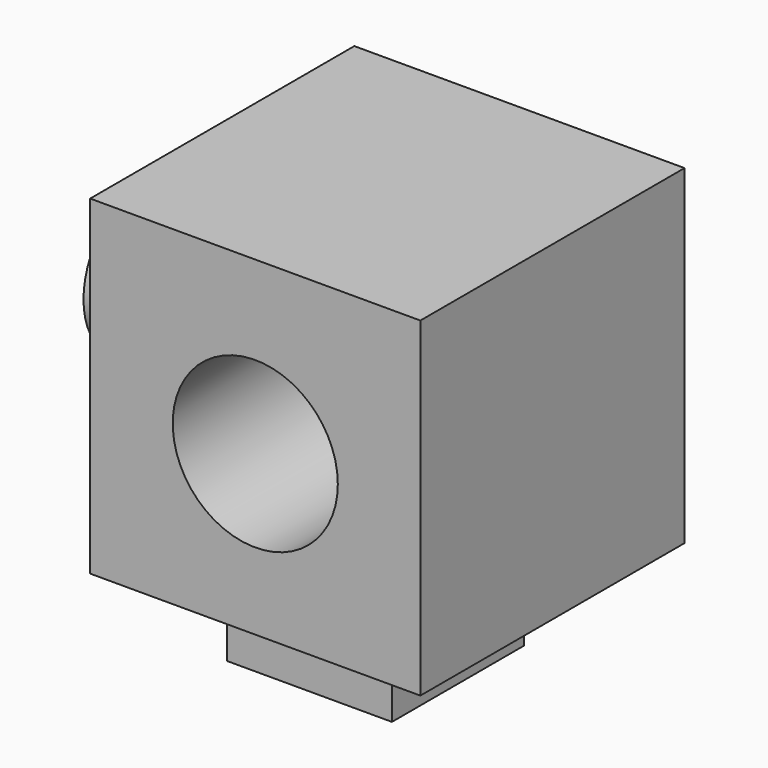
from build123d import *

# Parameters (mm, degrees)
F1_DEPTH = 50.8
F2_R     = 12.7
F3_DEPTH = 50.8
F4_W     = 25.4
F4_H     = 25.4
F5_DEPTH = 12.7
F6_R     = 11.122921
F7_DEPTH = 12.7


with BuildPart() as f1:
    # F0 (on Front) → F1 (new body)
    with BuildSketch(Plane.XZ):
        Polygon((-25.4, 0), (0, 0), (25.4, 0), (25.4, 50.8), (-25.4, 50.8), align=None)
    extrude(amount=F1_DEPTH)

    # F2 (on face) → F3 (cut)
    with BuildSketch(Plane.XZ.offset(50.8)):
        with Locations((0, 24.496891)):
            Circle(F2_R)
    extrude(amount=-F3_DEPTH, mode=Mode.SUBTRACT)

    # F4 (on face) → F5 (join)
    with BuildSketch(Plane(origin=(0, 0, 0), x_dir=(1, 0, 0), z_dir=(0, 0, -1))):
        with Locations((-0.931334, 26.528889)):
            Rectangle(F4_W, F4_H)
    extrude(amount=F5_DEPTH)

    # F6 (on face) → F7 (join)
    with BuildSketch(Plane(origin=(-25.4, 0, 0), x_dir=(0, -1, 0), z_dir=(-1, 0, 0))):
        with Locations((25.089554, 27.065113)):
            Circle(F6_R)
    extrude(amount=F7_DEPTH)


solid = f1.part
